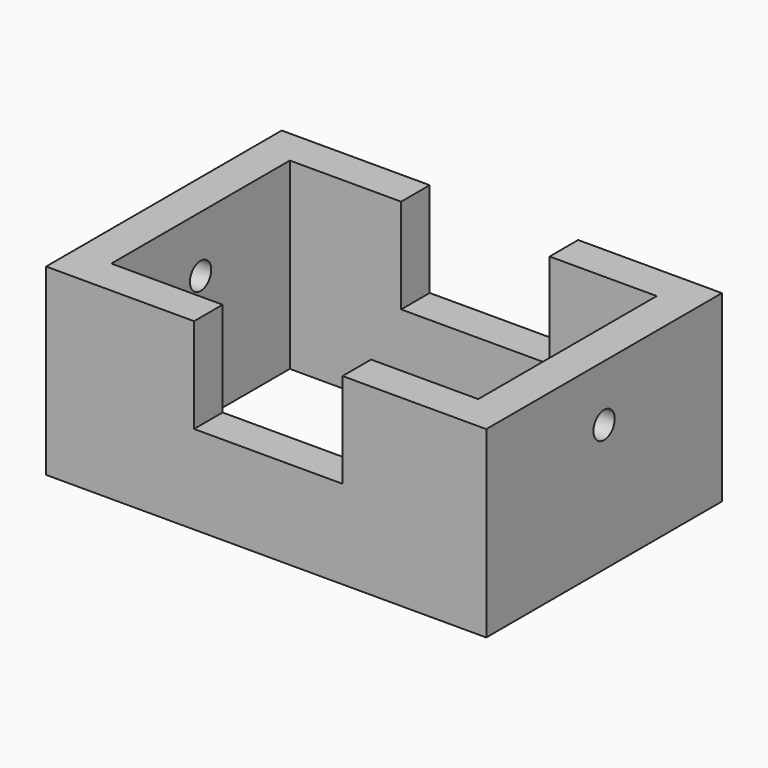
from build123d import *

# Parameters (mm, degrees)
F0_W     = 91.42606
F0_H     = 61.178378
F0_W_2   = 76.204642
F0_H_2   = 46.347256
F1_DEPTH = 38.1
F2_W     = 30.83312
F2_H     = 20.100074
F3_DEPTH = 62.738
F4_DEPTH = 41.91
F5_R     = 2.767674
F6_DEPTH = 103.632


with BuildPart() as f1:
    # F0 (on Top) → F1 (new body)
    with BuildSketch(Plane.XY):
        Rectangle(F0_W, F0_H)
        Rectangle(F0_W_2, F0_H_2, mode=Mode.SUBTRACT)
    extrude(amount=F1_DEPTH)

    # F2 (on Front) → F3 (cut)
    with BuildSketch(Plane.XZ):
        with Locations((0.439078, 28.442579)):
            Rectangle(F2_W, F2_H)
    extrude(amount=F3_DEPTH, mode=Mode.SUBTRACT)

    # F2 (on Front) → F4 (cut)
    with BuildSketch(Plane.XZ):
        with Locations((0.439078, 28.442579)):
            Rectangle(F2_W, F2_H)
    extrude(amount=-F4_DEPTH, mode=Mode.SUBTRACT)

    # F5 (on face) → F6 (cut)
    with BuildSketch(Plane.YZ.offset(45.71303)):
        with Locations((0, 26.430823)):
            Circle(F5_R)
    extrude(amount=-F6_DEPTH, mode=Mode.SUBTRACT)


solid = f1.part
